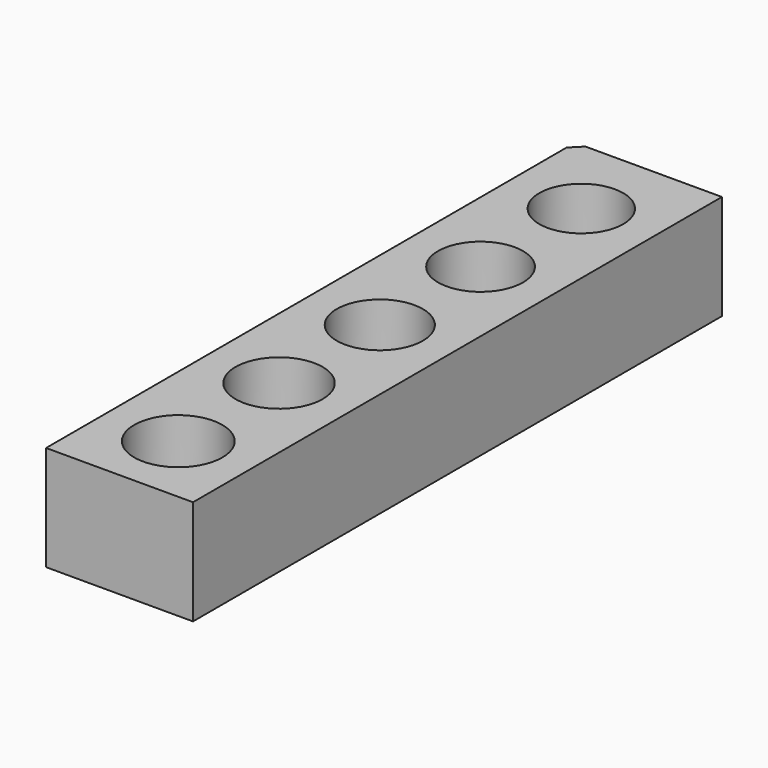
from build123d import *

# Parameters (mm, degrees)
CYLINDER051_R     = 4
CYLINDER051_DEPTH = 10
CYLINDER054_R     = 4.15
CYLINDER054_DEPTH = 10
CYLINDER052_R     = 4.05
CYLINDER052_DEPTH = 10
CYLINDER053_R     = 4.1
CYLINDER053_DEPTH = 10
CYLINDER055_R     = 4.2
CYLINDER055_DEPTH = 10
BOX024_W          = 14
BOX024_H          = 63
BOX024_DEPTH      = 10
CHAMFER030_SIZE   = 1


with BuildPart() as cylinder051:
    # Cylinder051 → Cylinder051 (new body)
    with BuildSketch(Plane.XY):
        Circle(CYLINDER051_R)
    extrude(amount=CYLINDER051_DEPTH)


with BuildPart() as cylinder054:
    # Cylinder054 → Cylinder054 (new body)
    with BuildSketch(Plane(origin=(0, -36, 0), x_dir=(1, 0, 0), z_dir=(0, 0, 1))):
        Circle(CYLINDER054_R)
    extrude(amount=CYLINDER054_DEPTH)


with BuildPart() as cylinder052:
    # Cylinder052 → Cylinder052 (new body)
    with BuildSketch(Plane(origin=(0, -12, 0), x_dir=(1, 0, 0), z_dir=(0, 0, 1))):
        Circle(CYLINDER052_R)
    extrude(amount=CYLINDER052_DEPTH)


with BuildPart() as cylinder053:
    # Cylinder053 → Cylinder053 (new body)
    with BuildSketch(Plane(origin=(0, -24, 0), x_dir=(1, 0, 0), z_dir=(0, 0, 1))):
        Circle(CYLINDER053_R)
    extrude(amount=CYLINDER053_DEPTH)


with BuildPart() as fusion021:
    # Cylinder055 → Cylinder055 (new body)
    with BuildSketch(Plane(origin=(0, -48, 0), x_dir=(1, 0, 0), z_dir=(0, 0, 1))):
        Circle(CYLINDER055_R)
    extrude(amount=CYLINDER055_DEPTH)

    # Fusion021: union Cylinder051, Cylinder054, Cylinder052, Cylinder053
    add(cylinder051.part)
    add(cylinder054.part)
    add(cylinder052.part)
    add(cylinder053.part)


with BuildPart() as cut039:
    # Box024 → Box024 (new body)
    with BuildSketch(Plane(origin=(-7, -55, 0), x_dir=(1, 0, 0), z_dir=(0, 0, 1))):
        with Locations((7, 31.5)):
            Rectangle(BOX024_W, BOX024_H)
    extrude(amount=BOX024_DEPTH)

    # Chamfer030
    chamfer030_edges = [cut039.edges().sort_by_distance(p)[0] for p in [
        (-7, 8, 5),
    ]]
    chamfer(chamfer030_edges, length=CHAMFER030_SIZE)

    # Cut039: cut Fusion021
    add(fusion021.part, mode=Mode.SUBTRACT)


solid = cut039.part
